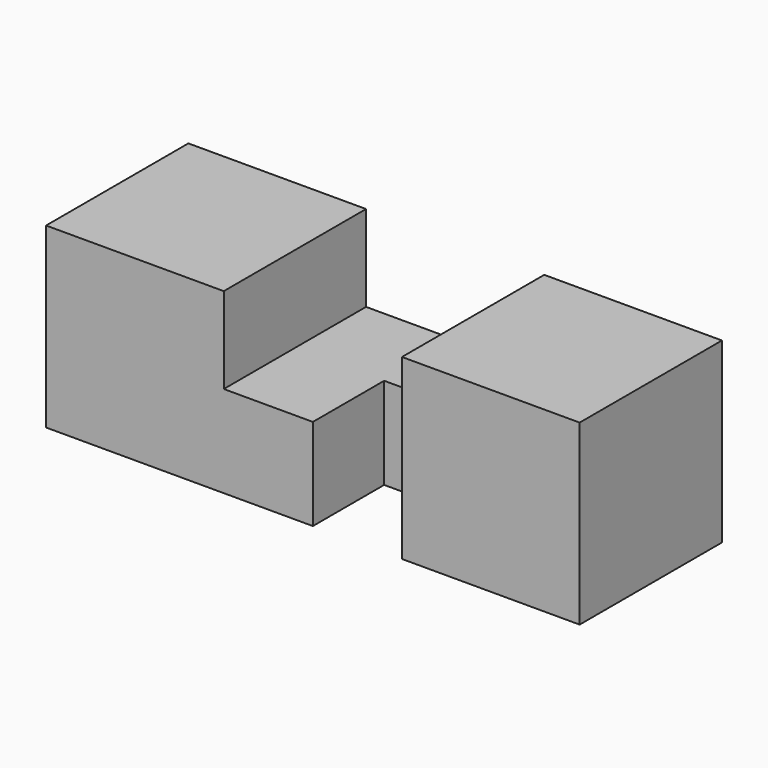
from build123d import *

# Parameters (mm, degrees)
F0_W     = 76.2
F0_H     = 25.4
F1_DEPTH = 25.4
F2_W     = 25.4508
F2_H     = 12.7254
F3_DEPTH = 25.4
F4_W     = 12.7254
F4_H     = 12.7254
F5_DEPTH = 25.4


with BuildPart() as f1:
    # F0 (on Top) → F1 (new body)
    with BuildSketch(Plane.XY):
        with Locations((38.1, 12.7)):
            Rectangle(F0_W, F0_H)
    extrude(amount=F1_DEPTH)

    # F2 (on Front) → F3 (cut)
    with BuildSketch(Plane.XZ):
        with Locations((38.1, 19.458432)):
            Rectangle(F2_W, F2_H)
    extrude(amount=-F3_DEPTH, mode=Mode.SUBTRACT)

    # F4 (on face) → F5 (cut)
    with BuildSketch(Plane.XY.offset(13.095732)):
        with Locations((44.4627, 6.3627)):
            Rectangle(F4_W, F4_H)
    extrude(amount=-F5_DEPTH, mode=Mode.SUBTRACT)


solid = f1.part
